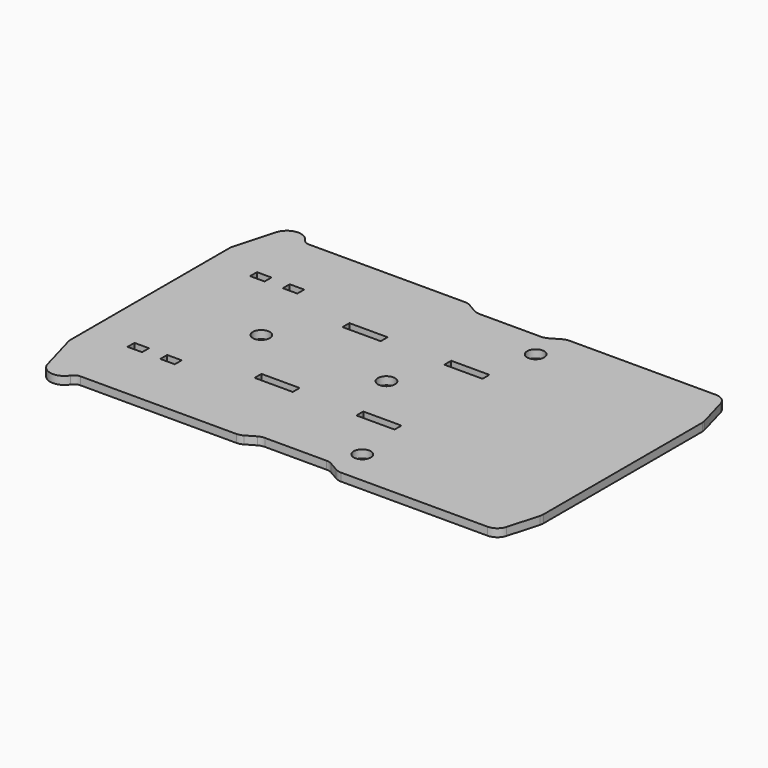
from build123d import *

# Parameters (mm, degrees)
F0_R     = 12.7
F0_R_2   = 12.827
F1_DEPTH = 11.938
F3_DEPTH = 25.4
F5_DEPTH = 25.4


with BuildPart() as f1:
    # F0 (on Top) → F1 (new body)
    with BuildSketch(Plane.XY):
        with BuildLine():
            Line((58.34362, -61.556164), (72.2663, -53.5179))
            ThreePointArc((72.2663, -53.5179), (76.738749, -51.665351), (81.538278, -51.033481))
            Line((81.538278, -51.033481), (174.210487, -51.033481))
            ThreePointArc((174.210487, -51.033481), (179.010016, -51.665351), (183.482465, -53.517901))
            Line((183.482465, -53.517901), (197.405145, -61.556163))
            ThreePointArc((197.405145, -61.556163), (201.877594, -63.408713), (206.677123, -64.040582))
            Line((206.677123, -64.040582), (427.024152, -64.040582))
            ThreePointArc((427.024152, -64.040582), (438.226145, -60.274774), (444.878456, -50.506831))
            Line((444.878456, -50.506831), (458.014524, -3.695302))
            ThreePointArc((458.014524, -3.695302), (458.530955, -1.213822), (458.704177, 1.314901))
            Line((458.704177, 1.314901), (458.704177, 19.696639))
            Line((458.704177, 19.696639), (458.704177, 281.824639))
            Line((458.704177, 281.824639), (458.704177, 300.206376))
            ThreePointArc((458.704177, 300.206376), (458.530955, 302.735101), (458.014524, 305.216583))
            Line((458.014524, 305.216583), (444.878456, 352.02811))
            ThreePointArc((444.878456, 352.02811), (438.226145, 361.796053), (427.024152, 365.561861))
            Line((427.024152, 365.561861), (206.677126, 365.561861))
            ThreePointArc((206.677126, 365.561861), (201.877596, 364.929991), (197.405147, 363.077442))
            Line((197.405147, 363.077442), (183.482464, 355.039177))
            ThreePointArc((183.482464, 355.039177), (179.010015, 353.186628), (174.210486, 352.554758))
            Line((174.210486, 352.554758), (81.538278, 352.554758))
            ThreePointArc((81.538278, 352.554758), (76.738749, 353.186628), (72.2663, 355.039177))
            Line((72.2663, 355.039177), (58.34362, 363.07744))
            ThreePointArc((58.34362, 363.07744), (53.871171, 364.929989), (49.071641, 365.561859))
            Line((49.071641, 365.561859), (-185.331903, 365.561859))
            ThreePointArc((-185.331903, 365.561859), (-191.289303, 367.091944), (-195.772045, 371.30345))
            ThreePointArc((-195.772045, 371.30345), (-217.185472, 381.121689), (-234.872313, 365.561859))
            Line((-234.872313, 365.561859), (-251.80617, 305.216581))
            ThreePointArc((-251.80617, 305.216581), (-252.322601, 302.735099), (-252.495823, 300.206375))
            Line((-252.495823, 300.206375), (-252.495823, 281.82464))
            Line((-252.495823, 281.82464), (-252.495823, 19.69664))
            Line((-252.495823, 19.69664), (-252.495823, 1.314901))
            ThreePointArc((-252.495823, 1.314901), (-252.322601, -1.213823), (-251.80617, -3.695304))
            Line((-251.80617, -3.695304), (-234.872313, -64.040583))
            ThreePointArc((-234.872313, -64.040583), (-217.185472, -79.600413), (-195.772045, -69.782174))
            ThreePointArc((-195.772045, -69.782174), (-191.289303, -65.570667), (-185.331903, -64.040583))
            Line((-185.331903, -64.040583), (49.071641, -64.040583))
            ThreePointArc((49.071641, -64.040583), (53.871171, -63.408713), (58.34362, -61.556164))
        make_face()
        with Locations((-85.085704, 150.760638)):
            Circle(F0_R, mode=Mode.SUBTRACT)
        with Locations((197.19935, -12.218626)):
            Circle(F0_R_2, mode=Mode.SUBTRACT)
        with Locations((103.105436, 150.760638)):
            Circle(F0_R_2, mode=Mode.SUBTRACT)
        with Locations((197.19935, 313.739902)):
            Circle(F0_R_2, mode=Mode.SUBTRACT)
    extrude(amount=F1_DEPTH)

    # F2 (on face) → F3 (cut)
    with BuildSketch(Plane.XY.offset(11.938)):
        Polygon((-170.314763, 272.426638), (-185.808763, 272.426638), (-188.983763, 272.426638), (-188.983763, 259.472638), (-185.808763, 259.472638), (-170.314763, 259.472638), (-167.139763, 259.472638), (-167.139763, 272.426638), align=None)
        Polygon((-136.608963, 259.472638), (-121.114963, 259.472638), (-117.939963, 259.472638), (-117.939963, 272.426638), (-121.114963, 272.426638), (-136.608963, 272.426638), (-139.783963, 272.426638), (-139.783963, 259.472638), align=None)
        Polygon((-188.983763, 29.094638), (-185.808763, 29.094638), (-170.314763, 29.094638), (-167.139763, 29.094638), (-167.139763, 42.048638), (-170.314763, 42.048638), (-185.808763, 42.048638), (-188.983763, 42.048638), align=None)
        Polygon((-117.939963, 42.048638), (-121.114963, 42.048638), (-136.608963, 42.048638), (-139.783963, 42.048638), (-139.783963, 29.094638), (-136.608963, 29.094638), (-121.114963, 29.094638), (-117.939963, 29.094638), align=None)
    extrude(amount=-F3_DEPTH, mode=Mode.SUBTRACT)

    # F4 (on face) → F5 (cut)
    with BuildSketch(Plane.XY.offset(11.938)):
        Polygon((31.031037, 73.671638), (-20.022963, 73.671638), (-23.197963, 73.671638), (-23.197963, 60.717638), (-20.022963, 60.717638), (31.031037, 60.717638), (34.206037, 60.717638), (34.206037, 73.671638), align=None)
        Polygon((187.368037, 73.671638), (184.193037, 73.671638), (133.139037, 73.671638), (129.964037, 73.671638), (129.964037, 60.717638), (133.139037, 60.717638), (184.193037, 60.717638), (187.368037, 60.717638), align=None)
        Polygon((-23.197963, 226.071638), (-20.022963, 226.071638), (31.031037, 226.071638), (34.206037, 226.071638), (34.206037, 239.025638), (31.031037, 239.025638), (-20.022963, 239.025638), (-23.197963, 239.025638), align=None)
        Polygon((133.139037, 226.071638), (184.193037, 226.071638), (187.368037, 226.071638), (187.368037, 239.025638), (184.193037, 239.025638), (133.139037, 239.025638), (129.964037, 239.025638), (129.964037, 226.071638), align=None)
    extrude(amount=-F5_DEPTH, mode=Mode.SUBTRACT)


solid = f1.part
